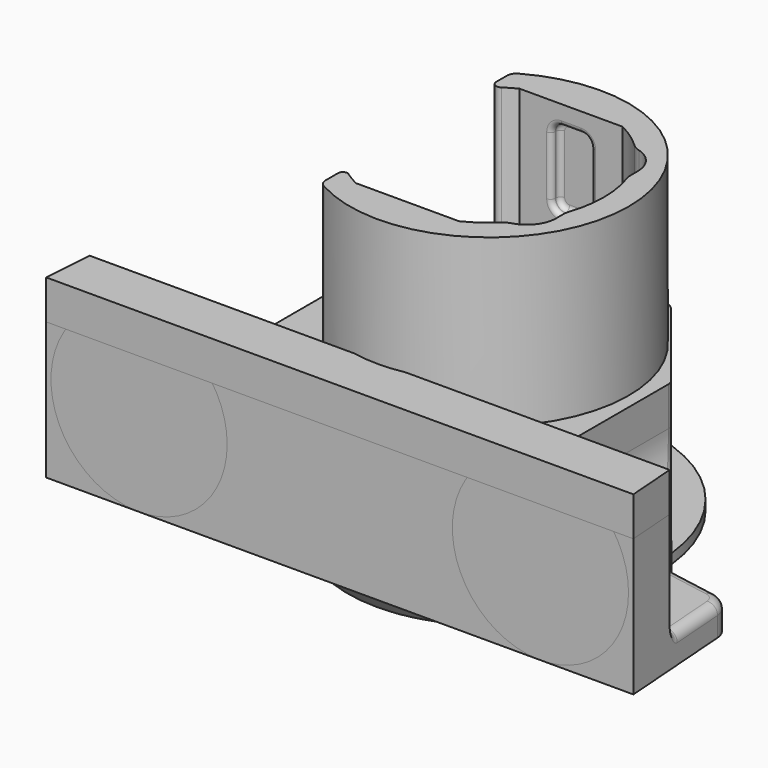
from build123d import *

# Parameters (mm, degrees)
SKETCH_R             = 14.25
PAD_DEPTH            = 17
SKETCH004_R          = 11.7
PAD001_DEPTH         = 14
SKETCH005_W          = 17
SKETCH005_H          = 11
POCKET001_DEPTH      = 14
POCKET001_DEPTH_BACK = -119
SKETCH012_W          = 14.217489
SKETCH012_H          = 30.08529
POCKET_DEPTH         = 16
POCKET_DEPTH_BACK    = -100
POCKET002_DEPTH      = 16
POCKET002_DEPTH_BACK = -100
SKETCH018_R          = 11.75
SKETCH018_R_2        = 9
PAD003_DEPTH         = 3
POCKET003_DEPTH      = 11.5
PAD004_DEPTH         = 4
POCKET006_DEPTH      = 25
SKETCH029_R          = 2.25
POCKET007_DEPTH      = 25
FILLET_R             = 7
FILLET001_R          = 2
FILLET002_R          = 1
FILLET003_R          = 1
FILLET004_R          = 0.5
FILLET005_R          = 1
FILLET006_R          = 2
BODY_PLACEMENT_ANGLE = 90
CYLINDER_R           = 9
CYLINDER_DEPTH       = 5
CYLINDER001_R        = 9
CYLINDER001_DEPTH    = 5


with BuildPart() as sensorbracket:
    # Sketch → Pad (new body)
    with BuildSketch(Plane.XZ):
        Circle(SKETCH_R)
        with BuildLine():
            ThreePointArc((-5.261891, 10.45), (-11.7, 0), (-5.261891, -10.45))
            Line((-5.261891, -10.45), (5.261891, -10.45))
            ThreePointArc((5.261891, -10.45), (11.7, 0), (5.261891, 10.45))
            Line((-5.261891, 10.45), (5.261891, 10.45))
        make_face(mode=Mode.SUBTRACT)
    extrude(amount=PAD_DEPTH)

    # Sketch004 → Pad001 (join)
    with BuildSketch(Plane(origin=(0, 0, 0), x_dir=(1, 0, 0), z_dir=(0, 1, 0))):
        Polygon((-30, 19.1), (30, 19.1), (29, 5.702922), (22.192978, 4.50266), (6.957688, -14.49734), (-6.957688, -14.49734), (-22.192978, 4.50266), (-29, 5.702922), align=None)
        Circle(SKETCH004_R, mode=Mode.SUBTRACT)
    extrude(amount=PAD001_DEPTH)

    # Sketch005 → Pocket001 (cut, two sides)
    with BuildSketch(Plane.XY) as pocket001_sk:
        with Locations((24, 5.5)):
            Rectangle(SKETCH005_W, SKETCH005_H)
        with Locations((-24, 5.5)):
            Rectangle(SKETCH005_W, SKETCH005_H)
    extrude(amount=-POCKET001_DEPTH, mode=Mode.SUBTRACT)
    extrude(pocket001_sk.sketch, amount=-POCKET001_DEPTH_BACK, mode=Mode.SUBTRACT)

    # Sketch012 → Pocket (cut, two sides)
    with BuildSketch(Plane.XZ.offset(16)) as pocket_sk:
        with Locations((-14.57115, -0.957355)):
            Rectangle(SKETCH012_W, SKETCH012_H)
    extrude(amount=-POCKET_DEPTH, mode=Mode.SUBTRACT)
    extrude(pocket_sk.sketch, amount=-POCKET_DEPTH_BACK, mode=Mode.SUBTRACT)

    # Sketch019 → Pocket002 (cut, two sides)
    with BuildSketch(Plane.XZ.offset(16)) as pocket002_sk:
        with BuildLine():
            ThreePointArc((-7.462406, 10.223449), (-7.140394, 9.686676), (-6.51523, 9.718116))
            ThreePointArc((-5.261891, 10.45), (-5.899921, 10.103511), (-6.51523, 9.718116))
            Line((-6.122972, 7.005013), (-5.261891, 10.45))
            Line((-10.687428, 7.005013), (-6.122972, 7.005013))
            Line((-10.687428, 11.279952), (-10.687428, 7.005013))
            Line((-7.462406, 11.279952), (-10.687428, 11.279952))
            Line((-7.462406, 11.279952), (-7.462406, 10.223449))
        make_face()
        with BuildLine():
            ThreePointArc((-6.712792, -9.582715), (-7.20598, -9.550314), (-7.462406, -9.972842))
            Line((-7.462406, -11.279952), (-7.462406, -9.972842))
            Line((-7.462406, -11.279952), (-10.687428, -11.279952))
            Line((-10.687428, -11.279952), (-10.687428, -7.005013))
            Line((-10.687428, -7.005013), (-6.122972, -7.005013))
            Line((-6.122972, -7.005013), (-6.376023, -9.811378))
            ThreePointArc((-6.712792, -9.582715), (-6.545241, -9.698274), (-6.376023, -9.811378))
        make_face()
    extrude(amount=-POCKET002_DEPTH, mode=Mode.SUBTRACT)
    extrude(pocket002_sk.sketch, amount=-POCKET002_DEPTH_BACK, mode=Mode.SUBTRACT)

    # Sketch018 → Pad003 (join)
    with BuildSketch(Plane.XZ.offset(-14)):
        Circle(SKETCH018_R)
        Circle(SKETCH018_R_2, mode=Mode.SUBTRACT)
    extrude(amount=PAD003_DEPTH)

    # Sketch016 → Pocket003 (cut, symmetric)
    with BuildSketch(Plane.XY):
        with BuildLine():
            Line((-1, -15), (1, -15))
            ThreePointArc((1, -15), (1.707107, -14.707107), (2, -14))
            Line((2, -14), (2, -8))
            ThreePointArc((2, -8), (1.707107, -7.292893), (1, -7))
            Line((1, -7), (-1, -7))
            ThreePointArc((-1, -7), (-1.707107, -7.292893), (-2, -8))
            Line((-2, -8), (-2, -14))
            ThreePointArc((-2, -14), (-1.707107, -14.707107), (-1, -15))
        make_face()
    extrude(amount=POCKET003_DEPTH, both=True, mode=Mode.SUBTRACT)

    # Sketch021 (on Face2 of Pocket003) → Pad004 (join)
    with BuildSketch(Plane.XZ):
        Polygon((-30, -19.100002), (-29.61932, -14.000002), (29.61932, -14.000002), (30, -19.100002), align=None)
    extrude(amount=PAD004_DEPTH)

    # Sketch024 → Groove (revolve, cut)
    with BuildSketch(Plane.XY):
        Polygon((-10.838703, 16.539074), (-8.913522, 16.539074), (-8.913522, 11.249681), align=None)
    revolve(axis=Axis((0, 0, 0), (0, 1, 0)), mode=Mode.SUBTRACT)

    # Sketch027 → Groove001 (revolve, cut)
    with BuildSketch(Plane.XY):
        Polygon((0, 11.49), (-9, 11.49), (-13.019238, 26.49), (0, 26.49), align=None)
    revolve(axis=Axis((0, 0, 0), (0, 1, 0)), mode=Mode.SUBTRACT)

    # Sketch028 (on Face4 of Pad004) → Pocket006 (cut)
    with BuildSketch(Plane.XZ.offset(17)):
        with BuildLine():
            Line((0, 8.2), (8, 8.2))
            ThreePointArc((11, 5.2), (10.12132, 7.32132), (8, 8.2))
            Line((11, 5.2), (11, -5.2))
            ThreePointArc((8, -8.2), (10.12132, -7.32132), (11, -5.2))
            Line((8, -8.2), (0, -8.2))
            Line((0, -8.2), (0, 8.2))
        make_face()
    extrude(amount=-POCKET006_DEPTH, mode=Mode.SUBTRACT)

    # Sketch029 → Pocket007 (cut)
    with BuildSketch(Plane.XY):
        with Locations((21.5, 4)):
            Circle(SKETCH029_R)
        with Locations((-21.5, 4)):
            Circle(SKETCH029_R)
    extrude(amount=-POCKET007_DEPTH, mode=Mode.SUBTRACT)

    # Fillet
    fillet_edges = [sensorbracket.edges().sort_by_distance(p)[0] for p in [
        (-15.5, 11, -5.077908),
        (15.5, 11, -5.077908),
    ]]
    fillet(fillet_edges, radius=FILLET_R)

    # Fillet001
    fillet001_edges = [sensorbracket.edges().sort_by_distance(p)[0] for p in [
        (29, 12.5, -5.702922),
        (22.192978, 12.496632, -4.50266),
        (6.957688, 7, 14.49734),
        (-6.957688, 7, 14.49734),
        (-22.192978, 12.496632, -4.50266),
        (-29, 12.5, -5.702922),
    ]]
    fillet(fillet001_edges, radius=FILLET001_R)

    # Fillet002
    fillet002_edges = [sensorbracket.edges().sort_by_distance(p)[0] for p in [
        (17.550253, 8.949747, -14),
        (17.773347, 9.163211, 1.009082),
        (-17.550253, 8.949747, -14),
        (-17.773347, 9.163211, 1.009082),
    ]]
    fillet(fillet002_edges, radius=FILLET002_R)

    # Fillet003
    fillet003_edges = [sensorbracket.edges().sort_by_distance(p)[0] for p in [
        (-7.462406, -8.5, -12.139811),
        (-7.462406, -8.5, 12.139811),
    ]]
    fillet(fillet003_edges, radius=FILLET003_R)

    # Fillet004
    fillet004_edges = [sensorbracket.edges().sort_by_distance(p)[0] for p in [
        (0, -15, -11.5),
        (1.707107, -14.707107, -11.5),
        (2, -11, -11.5),
        (1.707107, -7.292893, -11.5),
        (0, -7, -11.5),
        (-1.707107, -7.292893, -11.5),
        (-2, -11, -11.5),
        (-1.707107, -14.707107, -11.5),
        (2, -11, -10.45),
        (0, -15, 11.5),
        (1.707107, -14.707107, 11.5),
        (2, -11, 11.5),
        (1.707107, -7.292893, 11.5),
        (0, -7, 11.5),
        (-1.707107, -7.292893, 11.5),
        (-2, -11, 11.5),
        (-1.707107, -14.707107, 11.5),
        (2, -11, 10.45),
    ]]
    fillet(fillet004_edges, radius=FILLET004_R)

    # Fillet005
    fillet005_edges = [sensorbracket.edges().sort_by_distance(p)[0] for p in [
        (19.25, 4, -14),
        (-23.75, 4, -14),
    ]]
    fillet(fillet005_edges, radius=FILLET005_R)

    # Fillet006
    fillet006_edges = [sensorbracket.edges().sort_by_distance(p)[0] for p in [
        (8.367839, -8.5, -8.177364),
        (8.367839, 4, -8.177364),
        (11, -8.5, -3.986226),
        (11, 4, -3.986226),
        (11, -8.5, 3.986226),
        (11, 4, 3.986226),
        (8.367839, 4, 8.177364),
        (8.367839, -8.5, 8.177364),
    ]]
    fillet(fillet006_edges, radius=FILLET006_R)


with BuildPart() as sensorbracket_1:
    # Body placement: moved
    add(sensorbracket.part.rotate(Axis((0, 0, 0), (-1, 0, 0)), BODY_PLACEMENT_ANGLE))


with BuildPart() as shroud1:
    # Sketch030 → Revolution (revolve)
    with BuildSketch(Plane.XZ):
        with BuildLine():
            Line((-17.25, -14.98), (-14.526376, -17.689007))
            ThreePointArc((-14.526376, -17.689007), (-13.561056, -17.945577), (-12.855249, -17.238819))
            Line((-12.855249, -17.238819), (-12.25, -14.98))
            Line((-12.25, -14.98), (-12.25, -13.98))
            Line((-12.25, -13.98), (-17.25, -13.98))
            Line((-17.25, -13.98), (-17.25, -14.98))
        make_face()
    revolve(axis=Axis((0, 0, 0), (0, 0, 1)))


with BuildPart() as cylinder:
    # Cylinder → Cylinder (new body)
    with BuildSketch(Plane(origin=(-20.5, -19.1, -5), x_dir=(1, 0, 0), z_dir=(0, 1, 0))):
        Circle(CYLINDER_R)
    extrude(amount=CYLINDER_DEPTH)


with BuildPart() as cylinder001:
    # Cylinder001 → Cylinder001 (new body)
    with BuildSketch(Plane(origin=(20.5, -19.1, -5), x_dir=(1, 0, 0), z_dir=(0, 1, 0))):
        Circle(CYLINDER001_R)
    extrude(amount=CYLINDER001_DEPTH)


solid = Compound([sensorbracket_1.part, shroud1.part, cylinder.part, cylinder001.part])
